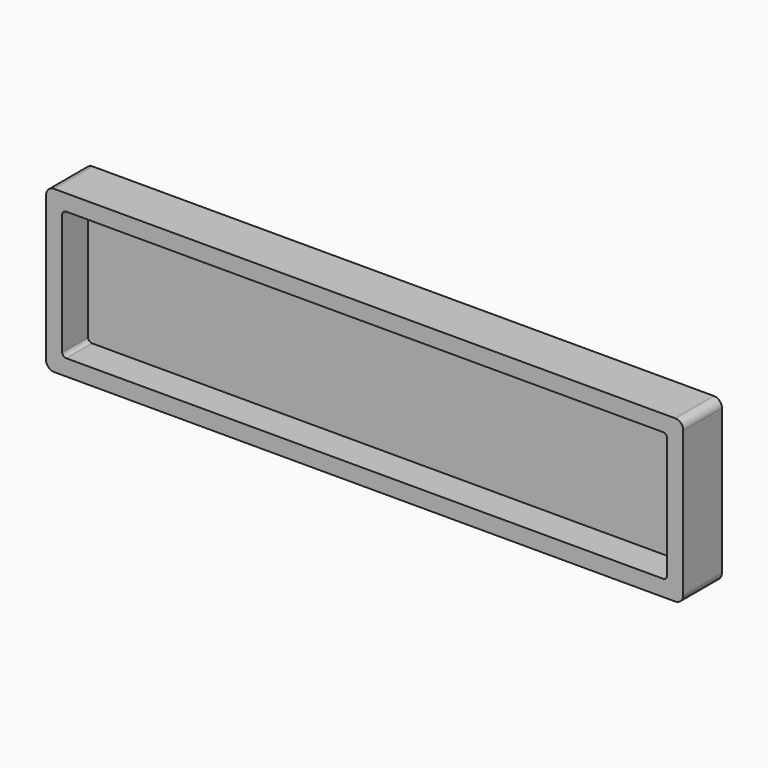
from build123d import *

# Parameters (mm, degrees)
F0_W     = 79
F0_H     = 20
F1_DEPTH = 6
F2_T     = -2
F3_R     = 1
F4_R     = 0.5


with BuildPart() as f1:
    # F0 (on Front) → F1 (new body)
    with BuildSketch(Plane.XZ):
        Rectangle(F0_W, F0_H)
    extrude(amount=F1_DEPTH)

    # F2
    f2_openings = [f1.faces().sort_by_distance(p)[0] for p in [
        (0, -6, 0),
    ]]
    offset(amount=F2_T, openings=f2_openings)

    # F3
    f3_edges = [f1.edges().sort_by_distance(p)[0] for p in [
        (39.5, -3, -10),
        (-39.5, -3, -10),
        (-39.5, -3, 10),
        (39.5, -3, 10),
    ]]
    fillet(f3_edges, radius=F3_R)

    # F4
    f4_edges = [f1.edges().sort_by_distance(p)[0] for p in [
        (-37.5, -4, -8),
        (37.5, -4, -8),
        (37.5, -4, 8),
        (-37.5, -4, 8),
    ]]
    fillet(f4_edges, radius=F4_R)


solid = f1.part
